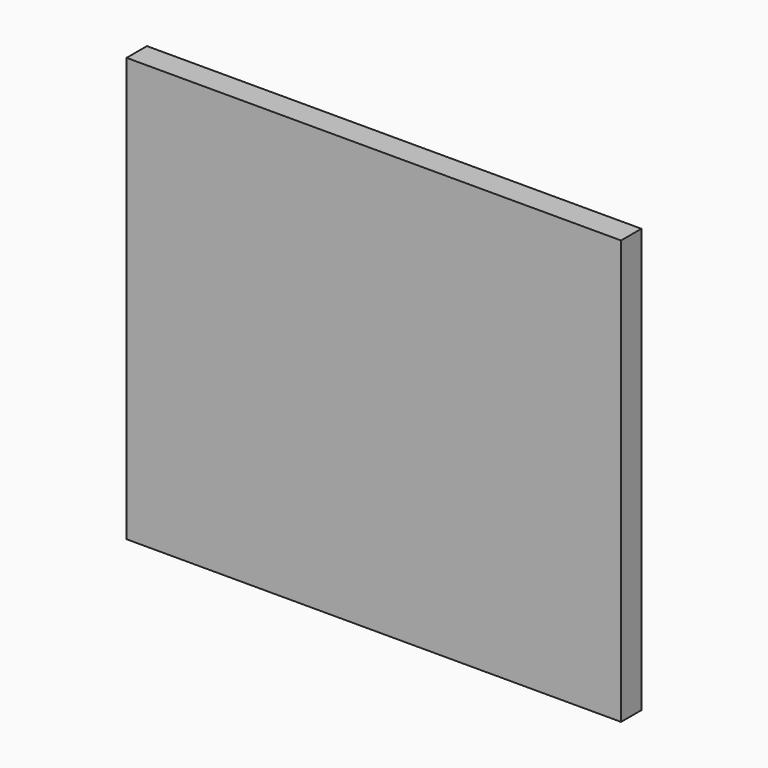
from build123d import *

# Parameters (mm, degrees)
BOX069_W                  = 35
BOX069_H                  = 1.8
BOX069_DEPTH              = 30
PAD002_DEPTH              = 3
BODY002_PLACEMENT_ANGLE   = 90
FUSION041_PLACEMENT_ANGLE = 180


with BuildPart() as logobase002:
    # Box069 → Box069 (new body)
    with BuildSketch(Plane(origin=(21.5, -44, 15.25), x_dir=(1, 0, 0), z_dir=(0, 0, 1))):
        with Locations((17.5, 0.9)):
            Rectangle(BOX069_W, BOX069_H)
    extrude(amount=BOX069_DEPTH)


with BuildPart() as logo:
    # Sketch002 → Pad002 (new body)
    with BuildSketch(Plane.XY):
        Polygon((-15.066747, -2.987899), (-14.417461, -3.201938), (-14.138643, -3.358095), (-13.867326, -3.550643), (-13.410691, -3.571363), (-13.132099, -3.616994), (-12.816981, -3.623429), (-12.466181, -3.85302), (-11.870388, -3.85302), (-11.520385, -4.008358), (-11.138921, -4.05555), (-10.80982, -4.007881), (-10.571555, -4.299093), (-10.133842, -4.331365), (-9.89036, -4.3898), (-9.995555, -4.876968), (-10.089424, -5.363912), (-10.107024, -5.504714), (-9.778484, -5.639651), (-9.516561, -5.730218), (-9.249311, -5.762288), (-8.928614, -5.901257), (-8.543776, -5.863842), (-7.717882, -5.75845), (-7.372913, -5.972569), (-6.724874, -5.720376), (-6.270657, -5.694814), (-6.062229, -5.804927), (-5.350893, -5.48914), (-5.024015, -5.48914), (-4.801264, -5.531317), (-4.197354, -5.162479), (-3.751908, -4.972515), (-3.377141, -4.972515), (-2.818976, -4.454219), (-2.627606, -4.342587), (-2.151123, -4.357646), (-2.380419, -4.518009), (-3.185771, -5.42702), (-3.613178, -6.058241), (-3.711104, -6.645795), (-3.835143, -7.155008), (-3.758777, -7.508761), (-3.705962, -7.68135), (-3.53967, -7.852018), (-3.468499, -8.65617), (-3.272681, -8.566711), (-3.168228, -8.769092), (-3.070875, -9.320832), (-2.842071, -9.3355), (-2.45193, -10.098182), (-2.249525, -10.130449), (-0.96042, -11.875302), (-0.153326, -11.388908), (0.461347, -10.768889), (0.669802, -10.72613), (1.317242, -9.709977), (1.518256, -9.650808), (1.740221, -9.089367), (2.020942, -9.043669), (2.393061, -7.803274), (2.588394, -7.698711), (2.654196, -7.039452), (2.869633, -6.817487), (3.091598, -6.928469), (3.796664, -7.57478), (3.933761, -7.502968), (4.462561, -7.973012), (4.684525, -7.920785), (5.115399, -8.34513), (5.324308, -8.286375), (6.23668, -8.795643), (6.503619, -8.766309), (7.148016, -9.05537), (8.048827, -9.186133), (8.36847, -7.936621), (8.499233, -7.791329), (8.434769, -6.722055), (8.586207, -6.479883), (8.322964, -5.531781), (8.439835, -5.190909), (8.074257, -4.393068), (8.042361, -4.177775), (8.090203, -3.994378), (8.410305, -4.111031), (8.720134, -4.050195), (9.318169, -4.050195), (9.829643, -4.158874), (10.132648, -3.967503), (10.517489, -3.962302), (10.88308, -3.975359), (11.224485, -4.094309), (11.686072, -3.910075), (12.103889, -3.883962), (12.600047, -3.962302), (13.579306, -3.877433), (14.388827, -3.746865), (14.754416, -3.681581), (15.276689, -3.753394), (15.04319, -3.241373), (14.520919, -2.516721), (14.037817, -1.994449), (13.280153, -1.546255), (13.043842, -1.231174), (12.107354, -0.797939), (11.380431, -0.250878), (10.439567, 0.304889), (9.595256, 0.727998), (8.536237, 0.97306), (7.198999, 0.97306), (5.779317, 0.795578), (5.601857, 0.795578), (5.831776, 0.981815), (6.254031, 1.158201), (6.302136, 1.382691), (7.179873, 1.706855), (7.446816, 1.794377), (7.490577, 2.126962), (8.300576, 2.668386), (8.685751, 2.818538), (8.685751, 3.125373), (8.89508, 3.18684), (9.634921, 4.066021), (9.626381, 4.327431), (10.206841, 5.183136), (9.255181, 5.644445), (9.110202, 5.875968), (8.321324, 5.973361), (8.154661, 6.066253), (7.828613, 6.044872), (7.634715, 6.130877), (7.563913, 6.332674), (6.748318, 6.354958), (6.468188, 6.295259), (6.270422, 6.610614), (5.404532, 6.332674), (5.270907, 6.471644), (4.569418, 6.247245), (4.441608, 6.406517), (3.419502, 5.945882), (3.291921, 6.153201), (2.15964, 5.491375), (2.000163, 5.698694), (1.618501, 5.348278), (1.459844, 5.949736), (1.381651, 6.286506), (1.14534, 6.299634), (0.824344, 6.914785), (0.348522, 7.295443), (0.126706, 7.681261), (-0.415308, 8.181635), (-0.872658, 8.623701), (-1.120738, 8.643287), (-1.793164, 9.119861), (-2.314879, 9.121219), (-2.713213, 9.138457), (-2.884254, 9.341568), (-3.167788, 9.264536), (-3.707386, 9.827964), (-4.049155, 9.7003), (-4.429878, 10.011006), (-4.979099, 10.142511), (-5.430383, 10.448871), (-5.989475, 10.365602), (-7.326053, 10.410839), (-7.252544, 9.132535), (-7.368778, 8.769302), (-7.261404, 7.837619), (-7.411118, 7.604196), (-7.092165, 6.743021), (-7.100138, 6.559623), (-7.29151, 6.384199), (-6.741315, 5.299757), (-6.87495, 5.027319), (-6.315858, 4.420645), (-6.303963, 4.194629), (-6.054155, 4.0043), (-6.185007, 3.956717), (-5.542647, 3.076445), (-5.578333, 2.909907), (-5.126302, 2.410293), (-5.185779, 2.267546), (-4.733747, 1.898783), (-4.424462, 1.589498), (-5.31663, 1.292109), (-5.840036, 1.089884), (-6.04226, 0.792495), (-6.946324, 0.994719), (-7.196131, 0.887659), (-7.814701, 1.042302), (-8.02502, 0.969153), (-8.602671, 1.030419), (-8.834605, 0.872878), (-9.333486, 0.929767), (-9.661695, 0.649695), (-10.324935, 0.649695), (-11.010686, 0.32425), (-11.728333, 0.053139), (-12.297134, -0.13161), (-12.421175, -0.347049), (-13.295985, -0.817096), (-13.922715, -1.241445), (-14.170795, -1.59398), (-14.53862, -2.09216), (-14.783051, -2.457701), align=None)
    extrude(amount=PAD002_DEPTH)


with BuildPart() as logo_1:
    # Body002 placement: moved
    add(logo.part.moved(Location((39.35, -43, 30))).rotate(Axis((39.35, -43, 30), (1, 0, 0)), BODY002_PLACEMENT_ANGLE))

    # Fusion041: union logoBase002
    add(logobase002.part)


with BuildPart() as logo_2:
    # Fusion041 placement: moved
    add(logo_1.part.moved(Location((-69, -26, 58))).rotate(Axis((-69, -26, 58), (1, 0, 0)), FUSION041_PLACEMENT_ANGLE))


solid = logo_2.part
